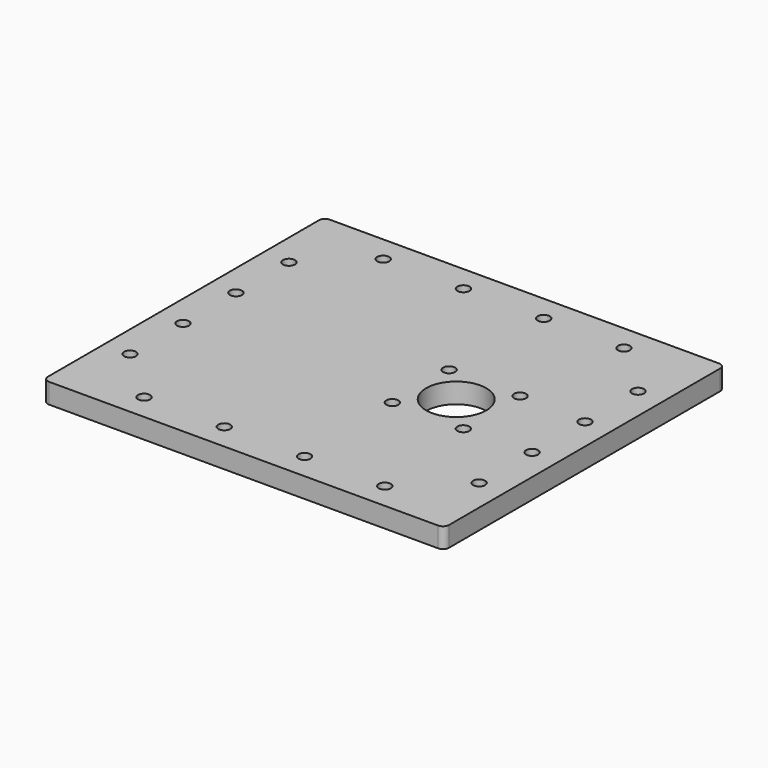
from build123d import *

# Parameters (mm, degrees)
SKETCH_W   = 200
SKETCH_H   = 175
SKETCH_R   = 15
SKETCH_R_2 = 3
PAD_DEPTH  = 10
FILLET_R   = 3


with BuildPart() as part:
    # Sketch → Pad (new body)
    with BuildSketch(Plane.XY):
        with Locations((100, 100)):
            Rectangle(SKETCH_W, SKETCH_H)
        with Locations((136, 100)):
            Circle(SKETCH_R, mode=Mode.SUBTRACT)
        with Locations((118.32233, 117.67767)):
            Circle(SKETCH_R_2, mode=Mode.SUBTRACT)
        with Locations((153.67767, 117.67767)):
            Circle(SKETCH_R_2, mode=Mode.SUBTRACT)
        with Locations((118.32233, 82.32233)):
            Circle(SKETCH_R_2, mode=Mode.SUBTRACT)
        with Locations((153.67767, 82.32233)):
            Circle(SKETCH_R_2, mode=Mode.SUBTRACT)
        with Locations((40, 25.5)):
            Circle(SKETCH_R_2, mode=Mode.SUBTRACT)
        with Locations((160, 25.5)):
            Circle(SKETCH_R_2, mode=Mode.SUBTRACT)
        with Locations((80, 25.5)):
            Circle(SKETCH_R_2, mode=Mode.SUBTRACT)
        with Locations((120, 25.5)):
            Circle(SKETCH_R_2, mode=Mode.SUBTRACT)
        with Locations((40, 174.5)):
            Circle(SKETCH_R_2, mode=Mode.SUBTRACT)
        with Locations((80, 174.5)):
            Circle(SKETCH_R_2, mode=Mode.SUBTRACT)
        with Locations((120, 174.5)):
            Circle(SKETCH_R_2, mode=Mode.SUBTRACT)
        with Locations((160, 174.5)):
            Circle(SKETCH_R_2, mode=Mode.SUBTRACT)
        with Locations((13, 149.5)):
            Circle(SKETCH_R_2, mode=Mode.SUBTRACT)
        with Locations((13, 116.5)):
            Circle(SKETCH_R_2, mode=Mode.SUBTRACT)
        with Locations((13, 83.5)):
            Circle(SKETCH_R_2, mode=Mode.SUBTRACT)
        with Locations((13, 50.5)):
            Circle(SKETCH_R_2, mode=Mode.SUBTRACT)
        with Locations((187, 149.5)):
            Circle(SKETCH_R_2, mode=Mode.SUBTRACT)
        with Locations((187, 116.5)):
            Circle(SKETCH_R_2, mode=Mode.SUBTRACT)
        with Locations((187, 83.5)):
            Circle(SKETCH_R_2, mode=Mode.SUBTRACT)
        with Locations((187, 50.5)):
            Circle(SKETCH_R_2, mode=Mode.SUBTRACT)
    extrude(amount=PAD_DEPTH)

    # Fillet
    fillet_edges = [part.edges().sort_by_distance(p)[0] for p in [
        (0, 12.5, 5),
        (200, 12.5, 5),
        (0, 187.5, 5),
        (200, 187.5, 5),
    ]]
    fillet(fillet_edges, radius=FILLET_R)


solid = part.part
